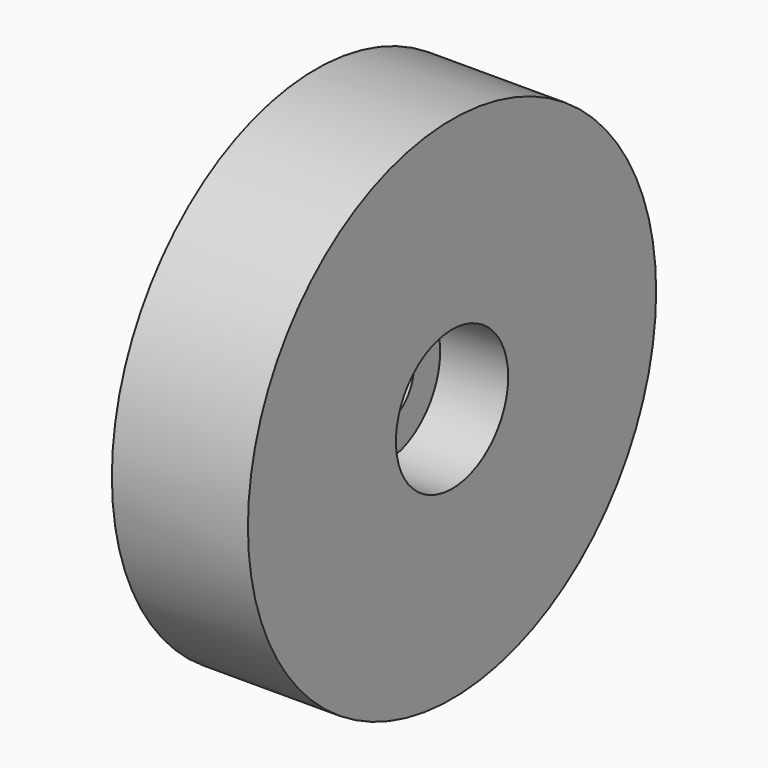
from build123d import *

# Parameters (mm, degrees)
F0_R           = 15
F1_DEPTH       = 8
F3_D           = 4.4
F3_CBORE_D     = 8.25
F3_CBORE_DEPTH = 4


with BuildPart() as f1:
    # F0 (on Right) → F1 (new body)
    with BuildSketch(Plane.YZ):
        Circle(F0_R)
    extrude(amount=F1_DEPTH)

    # F3 (through all)
    with Locations(Plane.YZ.offset(8)):
        with Locations((0, 0)):
            CounterBoreHole(F3_D / 2, F3_CBORE_D / 2, F3_CBORE_DEPTH)


solid = f1.part
